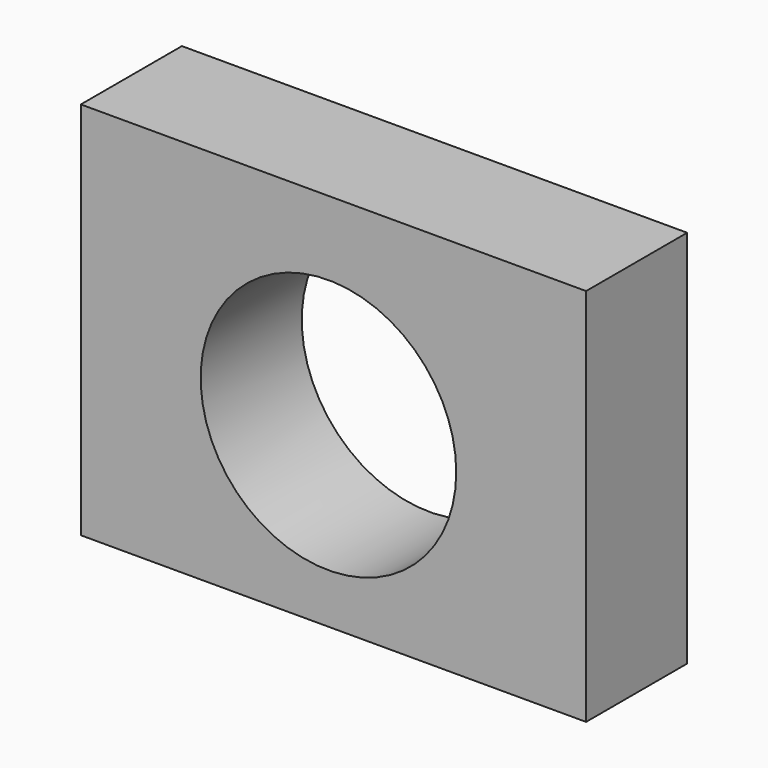
from build123d import *

# Parameters (mm, degrees)
F1_W     = 101.595435
F1_H     = 76.268525
F1_R     = 25.693818
F2_DEPTH = 25.4


with BuildPart() as f2:
    # F1 (on face) → F2 (new body)
    with BuildSketch(Plane.XZ):
        with Locations((-4.892697, 9.497589)):
            Rectangle(F1_W, F1_H)
        with Locations((-5.900017, 7.051241)):
            Circle(F1_R, mode=Mode.SUBTRACT)
    extrude(amount=F2_DEPTH)


solid = f2.part
